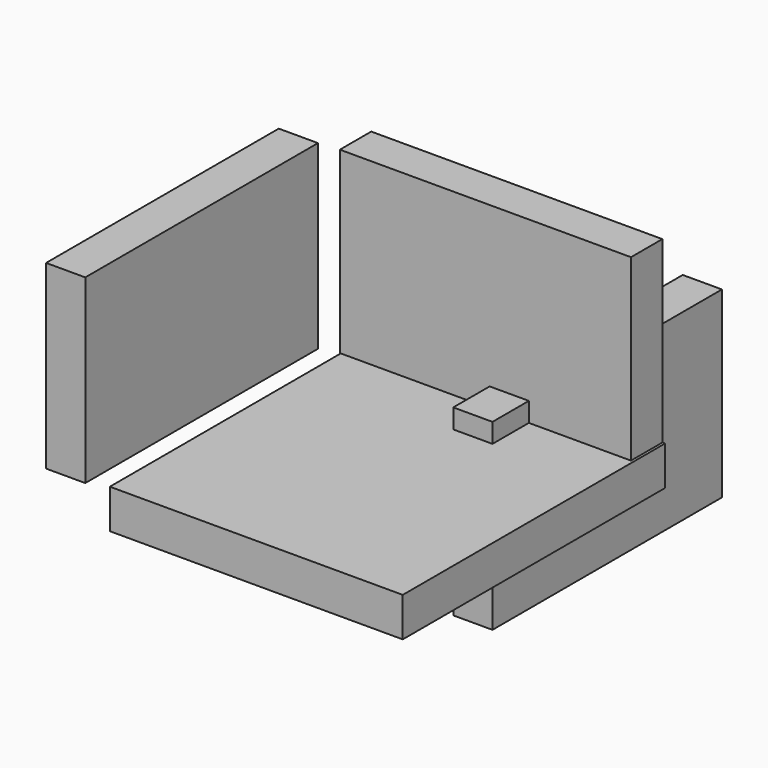
from build123d import *

# Parameters (mm, degrees)
F1_W     = 188.663915
F1_H     = 141.462833
F2_DEPTH = 25.4
F0_W     = 189.805709
F0_H     = 212.445378
F3_DEPTH = 25.4
F4_W     = 188.490927
F4_H     = 117.359251
F5_DEPTH = 25.4
F6_W     = 185.872972
F6_H     = 118.668229
F7_DEPTH = 25.4


with BuildPart() as f2:
    # F1 (on Front) → F2 (new body)
    with BuildSketch(Plane.XZ):
        with Locations((-2.738855, 70.731416)):
            Rectangle(F1_W, F1_H)
    extrude(amount=F2_DEPTH)

    # F0 (on Top) → F3 (join)
    with BuildSketch(Plane.XY):
        with Locations((-1.589205, -106.222689)):
            Rectangle(F0_W, F0_H)
    extrude(amount=F3_DEPTH)

    # F6 (on Right) → F7 (join)
    with BuildSketch(Plane.YZ):
        with Locations((38.067952, -21.368273)):
            Rectangle(F6_W, F6_H)
    extrude(amount=F7_DEPTH)


with BuildPart() as f5:
    # F4 (on Right) → F5 (new body)
    with BuildSketch(Plane.YZ):
        with Locations((-290.482193, 195.807978)):
            Rectangle(F4_W, F4_H)
    extrude(amount=F5_DEPTH)


solid = Compound([f2.part, f5.part])
